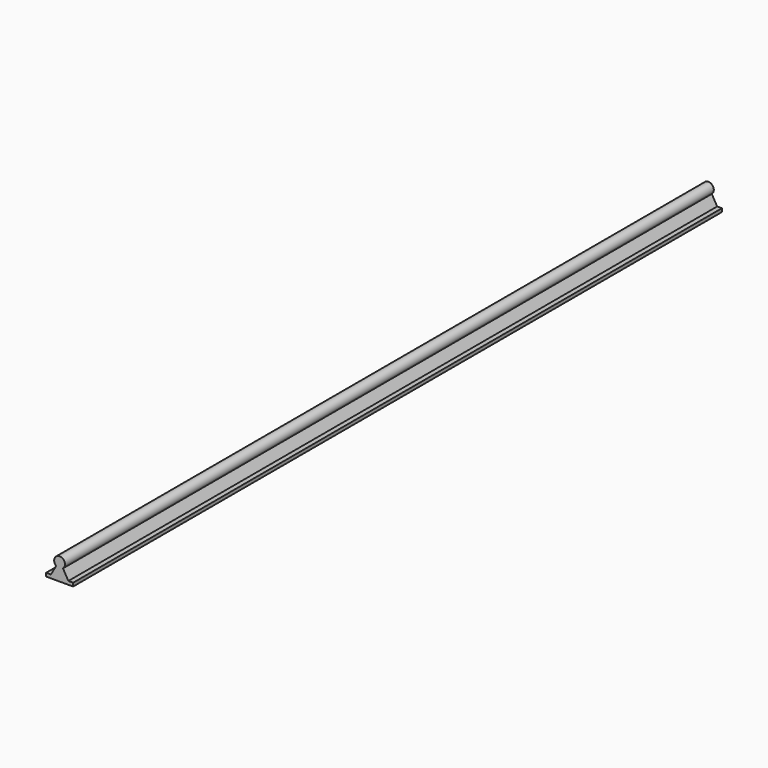
from build123d import *

# Parameters (mm, degrees)
PAD_DEPTH = 1200


with BuildPart() as part:
    # Sketch → Pad (new body)
    with BuildSketch(Plane.XZ):
        with BuildLine():
            ThreePointArc((5, -6.244998), (0, 8), (-5, -6.244998))
            Line((-5, -6.244998), (-12.941452, -20))
            Line((-20, -20), (-12.941452, -20))
            Line((-20, -25), (-20, -20))
            Line((-20, -25), (20, -25))
            Line((20, -25), (20, -20))
            Line((12.941446, -20), (20, -20))
            Line((5, -6.244998), (12.941446, -20))
        make_face()
    extrude(amount=PAD_DEPTH)


solid = part.part
